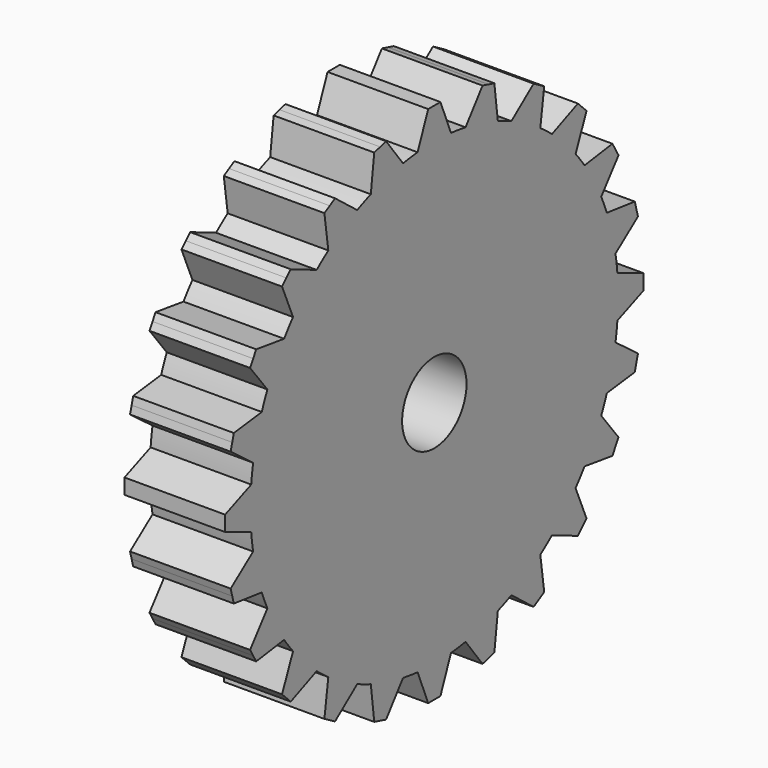
from build123d import *

# Parameters (mm, degrees)
F0_R     = 1.27
F1_DEPTH = 3.175


with BuildPart() as f1:
    # F0 (on Right) → F1 (new body)
    with BuildSketch(Plane.YZ):
        with BuildLine():
            ThreePointArc((-0.658468, 7.221743), (0, 7.2517), (0.658468, 7.221743))
            Line((0.658468, 7.221743), (0.241805, 8.251701))
            Line((0.241805, 8.251701), (0, 8.251701))
            Line((0, 8.251701), (-0.241805, 8.251701))
            Line((-0.241805, 8.251701), (-0.658468, 7.221743))
        make_face()
        with BuildLine():
            ThreePointArc((7.221743, -0.658468), (7.244207, -0.329575), (7.2517, 0))
            ThreePointArc((7.2517, 0), (7.244207, 0.329575), (7.221743, 0.658468))
            ThreePointArc((7.221743, 0.658468), (7.189661, 0.946537), (7.146092, 1.233093))
            ThreePointArc((7.146092, 1.233093), (7.004604, 1.876878), (6.805244, 2.505156))
            ThreePointArc((6.805244, 2.505156), (6.699697, 2.775105), (6.583447, 3.040622))
            ThreePointArc((6.583447, 3.040622), (6.280156, 3.62585), (5.924979, 4.181121))
            ThreePointArc((5.924979, 4.181121), (5.75316, 4.414555), (5.572151, 4.640936))
            ThreePointArc((5.572151, 4.640936), (5.127726, 5.127726), (4.640936, 5.572151))
            ThreePointArc((4.640936, 5.572151), (4.414555, 5.75316), (4.181121, 5.924979))
            ThreePointArc((4.181121, 5.924979), (3.62585, 6.280156), (3.040622, 6.583447))
            ThreePointArc((3.040622, 6.583447), (2.775105, 6.699697), (2.505156, 6.805244))
            ThreePointArc((2.505156, 6.805244), (1.876878, 7.004604), (1.233093, 7.146092))
            ThreePointArc((1.233093, 7.146092), (0.946537, 7.189661), (0.658468, 7.221743))
            ThreePointArc((0.658468, 7.221743), (0, 7.2517), (-0.658468, 7.221743))
            ThreePointArc((-0.658468, 7.221743), (-0.946537, 7.189661), (-1.233093, 7.146092))
            ThreePointArc((-1.233093, 7.146092), (-1.876878, 7.004604), (-2.505156, 6.805244))
            ThreePointArc((-2.505156, 6.805244), (-2.775105, 6.699697), (-3.040622, 6.583447))
            ThreePointArc((-3.040622, 6.583447), (-3.62585, 6.280156), (-4.181121, 5.924979))
            ThreePointArc((-4.181121, 5.924979), (-4.414555, 5.75316), (-4.640936, 5.572151))
            ThreePointArc((-4.640936, 5.572151), (-5.127726, 5.127726), (-5.572151, 4.640936))
            ThreePointArc((-5.572151, 4.640936), (-5.75316, 4.414555), (-5.924979, 4.181121))
            ThreePointArc((-5.924979, 4.181121), (-6.280156, 3.62585), (-6.583447, 3.040622))
            ThreePointArc((-6.583447, 3.040622), (-6.699697, 2.775105), (-6.805244, 2.505156))
            ThreePointArc((-6.805244, 2.505156), (-7.004604, 1.876878), (-7.146092, 1.233093))
            ThreePointArc((-7.146092, 1.233093), (-7.189661, 0.946537), (-7.221743, 0.658468))
            ThreePointArc((-7.221743, 0.658468), (-7.2517, 0), (-7.221743, -0.658468))
            ThreePointArc((-7.221743, -0.658468), (-7.189661, -0.946537), (-7.146092, -1.233093))
            ThreePointArc((-7.146092, -1.233093), (-7.004604, -1.876878), (-6.805244, -2.505156))
            ThreePointArc((-6.805244, -2.505156), (-6.699697, -2.775105), (-6.583447, -3.040622))
            ThreePointArc((-6.583447, -3.040622), (-6.280156, -3.62585), (-5.924979, -4.181121))
            ThreePointArc((-5.924979, -4.181121), (-5.75316, -4.414555), (-5.572151, -4.640936))
            ThreePointArc((-5.572151, -4.640936), (-5.127726, -5.127726), (-4.640936, -5.572151))
            ThreePointArc((-4.640936, -5.572151), (-4.414555, -5.75316), (-4.181121, -5.924979))
            ThreePointArc((-4.181121, -5.924979), (-3.62585, -6.280156), (-3.040622, -6.583447))
            ThreePointArc((-3.040622, -6.583447), (-2.775105, -6.699697), (-2.505156, -6.805244))
            ThreePointArc((-2.505156, -6.805244), (-1.876878, -7.004604), (-1.233093, -7.146092))
            ThreePointArc((-1.233093, -7.146092), (-0.946537, -7.189661), (-0.658468, -7.221743))
            ThreePointArc((-0.658468, -7.221743), (0, -7.2517), (0.658468, -7.221743))
            ThreePointArc((0.658468, -7.221743), (0.946537, -7.189661), (1.233093, -7.146092))
            ThreePointArc((1.233093, -7.146092), (1.876878, -7.004604), (2.505156, -6.805244))
            ThreePointArc((2.505156, -6.805244), (2.775105, -6.699697), (3.040622, -6.583447))
            ThreePointArc((3.040622, -6.583447), (3.62585, -6.280156), (4.181121, -5.924979))
            ThreePointArc((4.181121, -5.924979), (4.414555, -5.75316), (4.640936, -5.572151))
            ThreePointArc((4.640936, -5.572151), (5.127726, -5.127726), (5.572151, -4.640936))
            ThreePointArc((5.572151, -4.640936), (5.75316, -4.414555), (5.924979, -4.181121))
            ThreePointArc((5.924979, -4.181121), (6.280156, -3.62585), (6.583447, -3.040622))
            ThreePointArc((6.583447, -3.040622), (6.699697, -2.775105), (6.805244, -2.505156))
            ThreePointArc((6.805244, -2.505156), (7.004604, -1.876878), (7.146092, -1.233093))
            ThreePointArc((7.146092, -1.233093), (7.189661, -0.946537), (7.221743, -0.658468))
        make_face()
        Circle(F0_R, mode=Mode.SUBTRACT)
        with BuildLine():
            ThreePointArc((1.233093, 7.146092), (1.876878, 7.004604), (2.505156, 6.805244))
            Line((2.505156, 6.805244), (2.369263, 7.907947))
            Line((2.369263, 7.907947), (2.135697, 7.970531))
            Line((2.135697, 7.970531), (1.902131, 8.033114))
            Line((1.902131, 8.033114), (1.233093, 7.146092))
        make_face()
        with BuildLine():
            ThreePointArc((3.040622, 6.583447), (3.62585, 6.280156), (4.181121, 5.924979))
            Line((4.181121, 5.924979), (4.33526, 7.02528))
            Line((4.33526, 7.02528), (4.12585, 7.146182))
            Line((4.12585, 7.146182), (3.916441, 7.267085))
            Line((3.916441, 7.267085), (3.040622, 6.583447))
        make_face()
        with BuildLine():
            ThreePointArc((4.640936, 5.572151), (5.127726, 5.127726), (5.572151, 4.640936))
            Line((5.572151, 4.640936), (6.005816, 5.663851))
            Line((6.005816, 5.663851), (5.834833, 5.834833))
            Line((5.834833, 5.834833), (5.663851, 6.005816))
            Line((5.663851, 6.005816), (4.640936, 5.572151))
        make_face()
        with BuildLine():
            ThreePointArc((5.924979, 4.181121), (6.280156, 3.62585), (6.583447, 3.040622))
            Line((6.583447, 3.040622), (7.267085, 3.916441))
            Line((7.267085, 3.916441), (7.146182, 4.12585))
            Line((7.146182, 4.12585), (7.02528, 4.33526))
            Line((7.02528, 4.33526), (5.924979, 4.181121))
        make_face()
        with BuildLine():
            ThreePointArc((6.805244, 2.505156), (7.004604, 1.876878), (7.146092, 1.233093))
            Line((7.146092, 1.233093), (8.033114, 1.902131))
            Line((8.033114, 1.902131), (7.970531, 2.135697))
            Line((7.970531, 2.135697), (7.907947, 2.369263))
            Line((7.907947, 2.369263), (6.805244, 2.505156))
        make_face()
        with BuildLine():
            ThreePointArc((7.221743, 0.658468), (7.244207, 0.329575), (7.2517, 0))
            ThreePointArc((7.2517, 0), (7.244207, -0.329575), (7.221743, -0.658468))
            Line((7.221743, -0.658468), (8.251701, -0.241805))
            Line((8.251701, -0.241805), (8.251701, 0))
            Line((8.251701, 0), (8.251701, 0.241805))
            Line((8.251701, 0.241805), (7.221743, 0.658468))
        make_face()
        with BuildLine():
            Line((8.033114, -1.902131), (7.146092, -1.233093))
            ThreePointArc((7.146092, -1.233093), (7.004604, -1.876878), (6.805244, -2.505156))
            Line((6.805244, -2.505156), (7.907947, -2.369263))
            Line((7.907947, -2.369263), (7.970531, -2.135697))
            Line((7.970531, -2.135697), (8.033114, -1.902131))
        make_face()
        with BuildLine():
            Line((7.267085, -3.916441), (6.583447, -3.040622))
            ThreePointArc((6.583447, -3.040622), (6.280156, -3.62585), (5.924979, -4.181121))
            Line((5.924979, -4.181121), (7.02528, -4.33526))
            Line((7.02528, -4.33526), (7.146182, -4.12585))
            Line((7.146182, -4.12585), (7.267085, -3.916441))
        make_face()
        with BuildLine():
            Line((6.005816, -5.663851), (5.572151, -4.640936))
            ThreePointArc((5.572151, -4.640936), (5.127726, -5.127726), (4.640936, -5.572151))
            Line((4.640936, -5.572151), (5.663851, -6.005816))
            Line((5.663851, -6.005816), (5.834833, -5.834833))
            Line((5.834833, -5.834833), (6.005816, -5.663851))
        make_face()
        with BuildLine():
            Line((4.33526, -7.02528), (4.181121, -5.924979))
            ThreePointArc((4.181121, -5.924979), (3.62585, -6.280156), (3.040622, -6.583447))
            Line((3.040622, -6.583447), (3.916441, -7.267085))
            Line((3.916441, -7.267085), (4.12585, -7.146182))
            Line((4.12585, -7.146182), (4.33526, -7.02528))
        make_face()
        with BuildLine():
            Line((2.369263, -7.907947), (2.505156, -6.805244))
            ThreePointArc((2.505156, -6.805244), (1.876878, -7.004604), (1.233093, -7.146092))
            Line((1.233093, -7.146092), (1.902131, -8.033114))
            Line((1.902131, -8.033114), (2.135697, -7.970531))
            Line((2.135697, -7.970531), (2.369263, -7.907947))
        make_face()
        with BuildLine():
            Line((0.241805, -8.251701), (0.658468, -7.221743))
            ThreePointArc((0.658468, -7.221743), (0, -7.2517), (-0.658468, -7.221743))
            Line((-0.658468, -7.221743), (-0.241805, -8.251701))
            Line((-0.241805, -8.251701), (0, -8.251701))
            Line((0, -8.251701), (0.241805, -8.251701))
        make_face()
        with BuildLine():
            Line((-1.902131, -8.033114), (-1.233093, -7.146092))
            ThreePointArc((-1.233093, -7.146092), (-1.876878, -7.004604), (-2.505156, -6.805244))
            Line((-2.505156, -6.805244), (-2.369263, -7.907947))
            Line((-2.369263, -7.907947), (-2.135697, -7.970531))
            Line((-2.135697, -7.970531), (-1.902131, -8.033114))
        make_face()
        with BuildLine():
            Line((-3.916441, -7.267085), (-3.040622, -6.583447))
            ThreePointArc((-3.040622, -6.583447), (-3.62585, -6.280156), (-4.181121, -5.924979))
            Line((-4.181121, -5.924979), (-4.33526, -7.02528))
            Line((-4.33526, -7.02528), (-4.12585, -7.146182))
            Line((-4.12585, -7.146182), (-3.916441, -7.267085))
        make_face()
        with BuildLine():
            Line((-5.663851, -6.005816), (-4.640936, -5.572151))
            ThreePointArc((-4.640936, -5.572151), (-5.127726, -5.127726), (-5.572151, -4.640936))
            Line((-5.572151, -4.640936), (-6.005816, -5.663851))
            Line((-6.005816, -5.663851), (-5.834833, -5.834833))
            Line((-5.834833, -5.834833), (-5.663851, -6.005816))
        make_face()
        with BuildLine():
            Line((-7.02528, -4.33526), (-5.924979, -4.181121))
            ThreePointArc((-5.924979, -4.181121), (-6.280156, -3.62585), (-6.583447, -3.040622))
            Line((-6.583447, -3.040622), (-7.267085, -3.916441))
            Line((-7.267085, -3.916441), (-7.146182, -4.12585))
            Line((-7.146182, -4.12585), (-7.02528, -4.33526))
        make_face()
        with BuildLine():
            ThreePointArc((-7.221743, -0.658468), (-7.2517, 0), (-7.221743, 0.658468))
            Line((-7.221743, 0.658468), (-8.251701, 0.241805))
            Line((-8.251701, 0.241805), (-8.251701, 0))
            Line((-8.251701, 0), (-8.251701, -0.241805))
            Line((-8.251701, -0.241805), (-7.221743, -0.658468))
        make_face()
        with BuildLine():
            ThreePointArc((-7.146092, 1.233093), (-7.004604, 1.876878), (-6.805244, 2.505156))
            Line((-6.805244, 2.505156), (-7.907947, 2.369263))
            Line((-7.907947, 2.369263), (-7.970531, 2.135697))
            Line((-7.970531, 2.135697), (-8.033114, 1.902131))
            Line((-8.033114, 1.902131), (-7.146092, 1.233093))
        make_face()
        with BuildLine():
            ThreePointArc((-6.583447, 3.040622), (-6.280156, 3.62585), (-5.924979, 4.181121))
            Line((-5.924979, 4.181121), (-7.02528, 4.33526))
            Line((-7.02528, 4.33526), (-7.146182, 4.12585))
            Line((-7.146182, 4.12585), (-7.267085, 3.916441))
            Line((-7.267085, 3.916441), (-6.583447, 3.040622))
        make_face()
        with BuildLine():
            ThreePointArc((-5.572151, 4.640936), (-5.127726, 5.127726), (-4.640936, 5.572151))
            Line((-4.640936, 5.572151), (-5.663851, 6.005816))
            Line((-5.663851, 6.005816), (-5.834833, 5.834833))
            Line((-5.834833, 5.834833), (-6.005816, 5.663851))
            Line((-6.005816, 5.663851), (-5.572151, 4.640936))
        make_face()
        with BuildLine():
            ThreePointArc((-4.181121, 5.924979), (-3.62585, 6.280156), (-3.040622, 6.583447))
            Line((-3.040622, 6.583447), (-3.916441, 7.267085))
            Line((-3.916441, 7.267085), (-4.12585, 7.146182))
            Line((-4.12585, 7.146182), (-4.33526, 7.02528))
            Line((-4.33526, 7.02528), (-4.181121, 5.924979))
        make_face()
        with BuildLine():
            ThreePointArc((-2.505156, 6.805244), (-1.876878, 7.004604), (-1.233093, 7.146092))
            Line((-1.233093, 7.146092), (-1.902131, 8.033114))
            Line((-1.902131, 8.033114), (-2.135697, 7.970531))
            Line((-2.135697, 7.970531), (-2.369263, 7.907947))
            Line((-2.369263, 7.907947), (-2.505156, 6.805244))
        make_face()
        with BuildLine():
            Line((-7.907947, -2.369263), (-6.805244, -2.505156))
            ThreePointArc((-6.805244, -2.505156), (-7.004604, -1.876878), (-7.146092, -1.233093))
            Line((-7.146092, -1.233093), (-8.033114, -1.902131))
            Line((-8.033114, -1.902131), (-7.970531, -2.135697))
            Line((-7.970531, -2.135697), (-7.907947, -2.369263))
        make_face()
    extrude(amount=F1_DEPTH)


solid = f1.part
